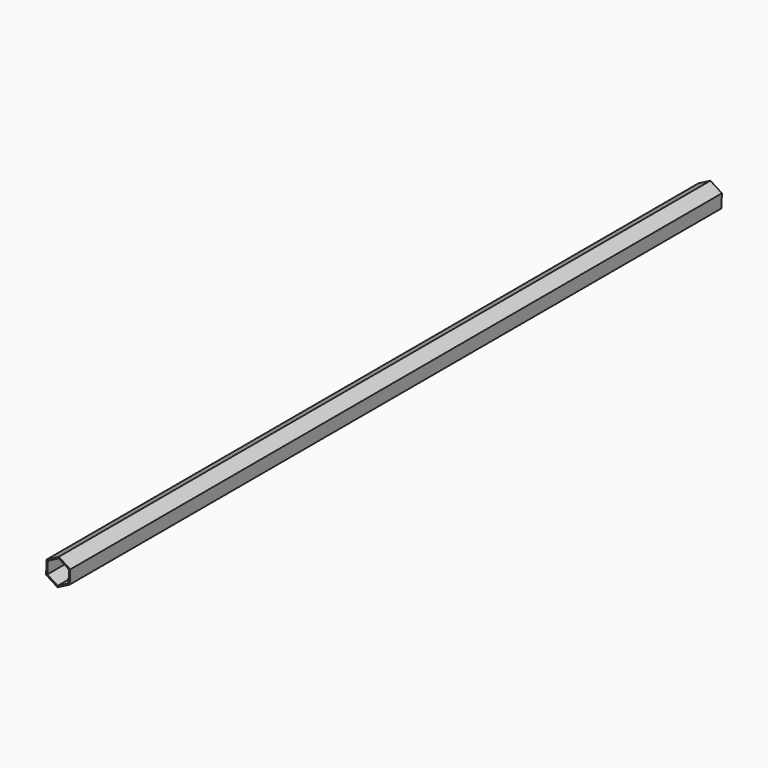
from build123d import *

# Parameters (mm, degrees)
F1_DEPTH = 1752.6
F2_T     = -2.54


with BuildPart() as f1:
    # F0 (on Front) → F1 (new body)
    with BuildSketch(Plane.XZ):
        Polygon((-1.279764, -29.30146), (24.735926, -15.759038), (26.01569, 13.542422), (1.279764, 29.30146), (-24.735926, 15.759038), (-26.01569, -13.542422), align=None)
    extrude(amount=-F1_DEPTH)

    # F2
    f2_openings = [f1.faces().sort_by_distance(p)[0] for p in [
        (0, 0, 0),
    ]]
    offset(amount=F2_T, openings=f2_openings)


solid = f1.part
